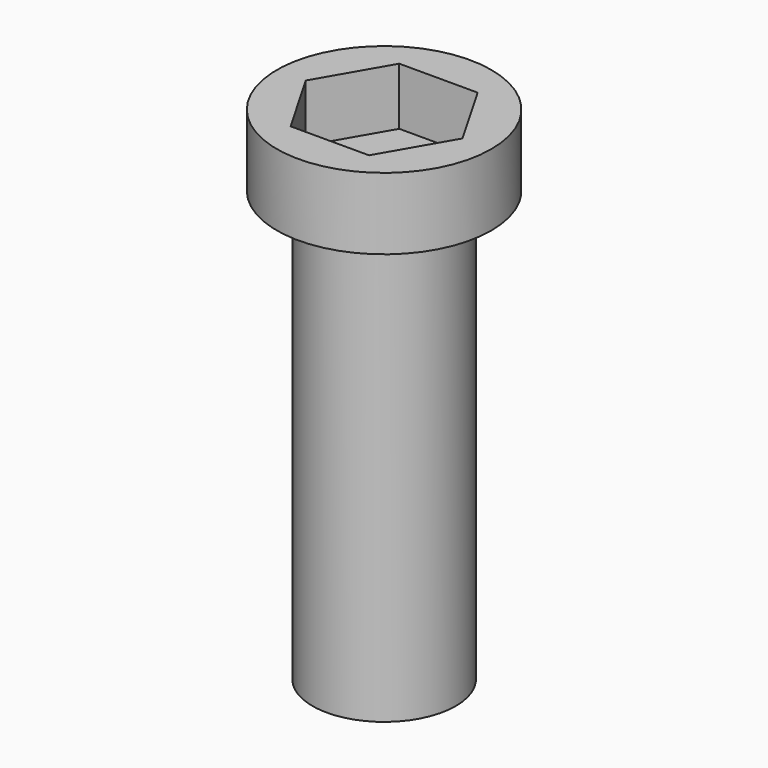
from build123d import *

# Parameters (mm, degrees)
F3_DEPTH = 2.54


with BuildPart() as f1:
    # F0 (on Front) → F1 (revolve)
    with BuildSketch(Plane.XZ):
        Polygon((0, 22.225), (0, 0), (3.175, 0), (3.175, 19.05), (4.7498, 19.05), (4.7498, 22.225), align=None)
    revolve(axis=Axis((0, 0, 11.934645), (0, 0, -1)))

    # F2 (on face) → F3 (cut)
    with BuildSketch(Plane.XY.offset(22.225)):
        Polygon((1.735786, -3.00647), (3.471572, 0), (1.735786, 3.00647), (-1.735786, 3.00647), (-3.471572, 0), (-1.735786, -3.00647), align=None)
    extrude(amount=-F3_DEPTH, mode=Mode.SUBTRACT)


solid = f1.part
